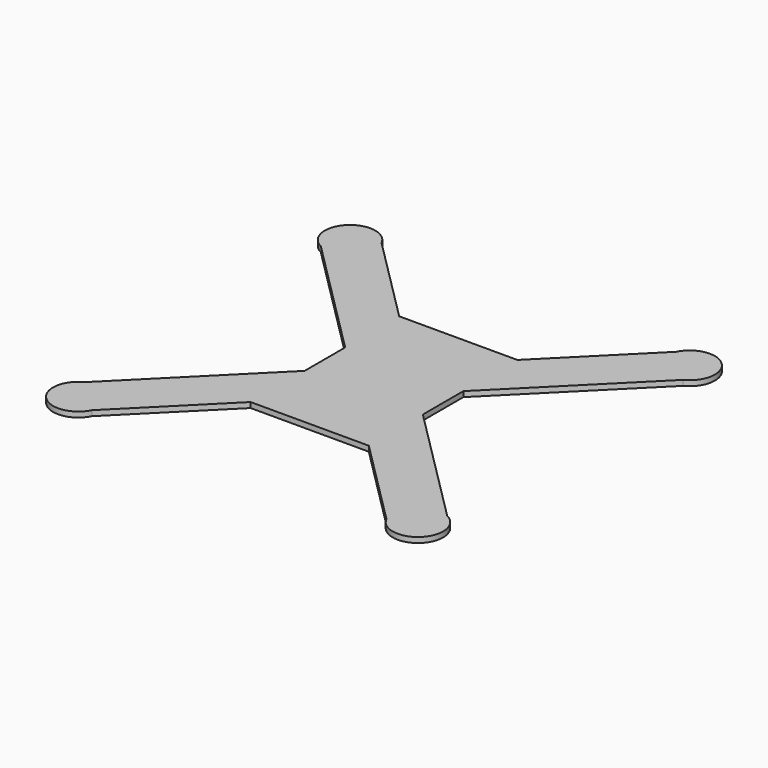
from build123d import *

# Parameters (mm, degrees)
F1_DEPTH = 2


with BuildPart() as f1:
    # F0 (on Top) → F1 (new body)
    with BuildSketch(Plane.XY):
        with BuildLine():
            Line((-22.272078, 35), (-55.485458, 68.21338))
            ThreePointArc((-55.485458, 68.21338), (-70.717514, 70.717514), (-68.21338, 55.485458))
            Line((-68.21338, 55.485458), (-22.272078, 9.544156))
            Line((-22.272078, 9.544156), (-22.272078, 0))
            Line((-22.272078, 0), (-22.272078, -9.544156))
            Line((-22.272078, -9.544156), (-68.21338, -55.485458))
            ThreePointArc((-68.21338, -55.485458), (-70.717514, -70.717514), (-55.485458, -68.21338))
            Line((-55.485458, -68.21338), (-22.272078, -35))
            Line((-22.272078, -35), (22.272078, -35))
            Line((22.272078, -35), (55.485458, -68.21338))
            ThreePointArc((55.485458, -68.21338), (70.717514, -70.717514), (68.21338, -55.485458))
            Line((68.21338, -55.485458), (22.272078, -9.544156))
            Line((22.272078, -9.544156), (22.272078, 0))
            Line((22.272078, 0), (22.272078, 9.544156))
            Line((22.272078, 9.544156), (68.21338, 55.485458))
            ThreePointArc((68.21338, 55.485458), (70.717514, 70.717514), (55.485458, 68.21338))
            Line((55.485458, 68.21338), (22.272078, 35))
            Line((22.272078, 35), (-22.272078, 35))
        make_face()
    extrude(amount=F1_DEPTH)


solid = f1.part
